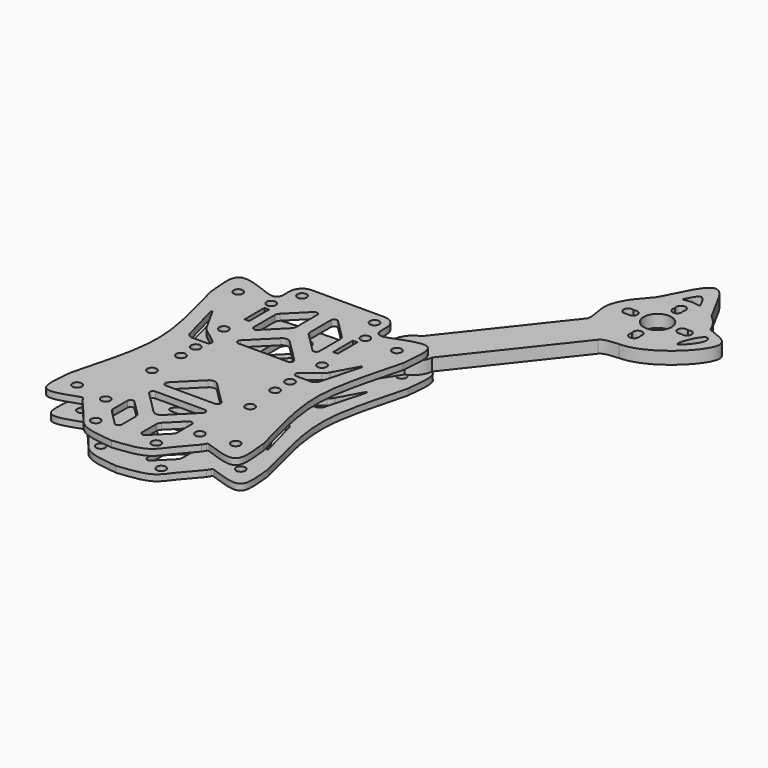
from build123d import *

# Parameters (mm, degrees)
F0_R     = 1.5
F0_W     = 1.5
F0_H     = 8
F1_DEPTH = 2
F2_R     = 1.5
F2_R_2   = 4.5
F3_DEPTH = 4
F5_START = -8
F4_R     = 1.5
F5_DEPTH = 2


with BuildPart() as f1:
    # F0 (on Top) → F1 (new body)
    with BuildSketch(Plane.XY):
        with BuildLine():
            Line((-18.3375635981, 31.6484452923), (-20.2031719051, 32.2218290431))
            add(Edge.make_bspline(
                [(-20.2031719051, 32.2218290431), (-23.587653786, 33.4649229243), (-33.8342020332, 38.0349181958), (-31.3543078417, 27.1598680228), (-31.2000553163, 23.5576178706)],
                knots=[0, 0, 0, 0, 0.5, 1, 1, 1, 1], degree=3))
            add(Edge.make_bspline(
                [(-31.2000553163, 23.5576178706), (-28.3736046302, 12.3604227018), (-23.0296225912, -4.7315553567), (-28.3736046302, -21.8235334151), (-31.2000553163, -33.020728584)],
                knots=[0, 0, 0, 0, 0.5, 1, 1, 1, 1], degree=3))
            add(Edge.make_bspline(
                [(-31.2000553163, -33.020728584), (-31.5236495663, -37.2076907408), (-33.4017812436, -47.0918338202), (-24.4280401499, -43.0389873741), (-20.6060443876, -41.8286181711)],
                knots=[0, 0, 0, 0, 0.5050655509, 1, 1, 1, 1], degree=3))
            Line((-20.6060443876, -41.8286181711), (-20.5803608331, -41.8194585175))
            ThreePointArc((-20.5803608331, -41.8194585175), (-20.2490943869, -41.8178274529), (-19.9895147498, -42.023639335))
            Line((-19.9895147498, -42.023639335), (-19.2511072473, -43.1941983527))
            add(Edge.make_bspline(
                [(-19.2511072473, -43.1941983527), (-17.3005706476, -45.3147992864), (-13.734975541, -49.537223912), (-10.2660770178, -54.6031397518), (-3.7194709349, -55.2509907064), (0, -55.6397614479)],
                knots=[0, 0, 0, 0, 0.3439625189, 0.625548145, 1, 1, 1, 1], degree=3))
            add(Edge.make_bspline(
                [(19.2511072473, -43.1941983527), (17.1900322363, -45.4409226451), (13.7763694298, -49.4899938476), (10.2513818536, -54.6199068055), (3.7194709349, -55.2509907064), (0, -55.6397614479)],
                knots=[0, 0, 0, 0, 0.3439625189, 0.625548145, 1, 1, 1, 1], degree=3))
            Line((19.2511072473, -43.1941983527), (19.9895147498, -42.023639335))
            ThreePointArc((19.9895147498, -42.023639335), (20.2490943869, -41.8178274529), (20.5803608331, -41.8194585175))
            Line((20.5803608331, -41.8194585175), (20.6060443876, -41.8286181711))
            add(Edge.make_bspline(
                [(31.2000553163, -33.020728584), (31.5241738424, -37.2110513509), (33.3984468888, -47.0857192502), (24.4340716378, -43.0477440686), (20.6060443876, -41.8286181711)],
                knots=[0, 0, 0, 0, 0.5050655509, 1, 1, 1, 1], degree=3))
            add(Edge.make_bspline(
                [(31.2000553163, 23.5576178706), (28.3736046302, 12.3604227018), (23.0296225912, -4.7315553567), (28.3736046302, -21.8235334151), (31.2000553163, -33.020728584)],
                knots=[0, 0, 0, 0, 0.5, 1, 1, 1, 1], degree=3))
            add(Edge.make_bspline(
                [(20.2031719051, 32.2218290431), (23.587653786, 33.4649229243), (33.8342020332, 38.0349181958), (31.3543078417, 27.1598680228), (31.2000553163, 23.5576178706)],
                knots=[0, 0, 0, 0, 0.5, 1, 1, 1, 1], degree=3))
            Line((20.2031719051, 32.2218290431), (18.3375635981, 31.6484452923))
            ThreePointArc((18.3375635981, 31.6484452923), (16.5615403238, 31.9515997489), (15.75, 33.5601903115))
            Line((15.75, 33.5601903115), (15.75, 36.2800180018))
            ThreePointArc((15.75, 36.2800180018), (14.5784271247, 39.1084451265), (11.75, 40.2800180018))
            Line((11.75, 40.2800180018), (0, 40.2800180018))
            Line((0, 40.2800180018), (-11.75, 40.2800180018))
            ThreePointArc((-11.75, 40.2800180018), (-14.5784271247, 39.1084451265), (-15.75, 36.2800180018))
            Line((-15.75, 36.2800180018), (-15.75, 33.5601903115))
            ThreePointArc((-15.75, 33.5601903115), (-16.5615403238, 31.9515997489), (-18.3375635981, 31.6484452923))
        make_face()
        with Locations((-25.7016136107, -37.3528341702)):
            Circle(F0_R, mode=Mode.SUBTRACT)
        with Locations((-9.8013905808, -49.6397614479)):
            Circle(F0_R, mode=Mode.SUBTRACT)
        with Locations((-15.25, -38.8460222539)):
            Circle(F0_R, mode=Mode.SUBTRACT)
        with BuildLine():
            ThreePointArc((-10.4, -36.1025408883), (-9.7826834324, -35.1786613557), (-8.6928932188, -35.3954341071))
            Line((-8.6928932188, -35.3954341071), (-3.9147186258, -40.1736087001))
            ThreePointArc((-3.9147186258, -40.1736087001), (-3.4811731231, -40.8224553978), (-3.3289321881, -41.5878222625))
            Line((-3.3289321881, -41.5878222625), (-3.3289321881, -47.2255478855))
            ThreePointArc((-3.3289321881, -47.2255478855), (-3.9462487558, -48.149427418), (-5.0360389693, -47.9326546667))
            Line((-5.0360389693, -47.9326546667), (-9.8142135624, -43.1544800737))
            ThreePointArc((-9.8142135624, -43.1544800737), (-10.247759065, -42.505633376), (-10.4, -41.7402665113))
            Line((-10.4, -41.7402665113), (-10.4, -36.1025408883))
        make_face(mode=Mode.SUBTRACT)
        with BuildLine():
            Line((-7.9857864376, -27.752749883), (0, -27.752749883))
            Line((0, -27.752749883), (7.9857864376, -27.752749883))
            ThreePointArc((7.9857864376, -27.752749883), (8.9096659701, -28.3700664506), (8.6928932188, -29.4598566642))
            Line((8.6928932188, -29.4598566642), (1.4142135624, -36.7385363206))
            ThreePointArc((1.4142135624, -36.7385363206), (0, -37.3243227583), (-1.4142135624, -36.7385363206))
            Line((-1.4142135624, -36.7385363206), (-8.6928932188, -29.4598566642))
            ThreePointArc((-8.6928932188, -29.4598566642), (-8.9096659701, -28.3700664506), (-7.9857864376, -27.752749883))
        make_face(mode=Mode.SUBTRACT)
        with Locations((-15.898, -19.2865553567)):
            Circle(F0_R, mode=Mode.SUBTRACT)
        with Locations((-15.25, -8.3460222539)):
            Circle(F0_R, mode=Mode.SUBTRACT)
        with BuildLine():
            Line((7.9857864376, -23.5960222539), (0, -23.5960222539))
            Line((0, -23.5960222539), (-7.9857864376, -23.5960222539))
            ThreePointArc((-7.9857864376, -23.5960222539), (-8.9096659701, -22.9787056862), (-8.6928932188, -21.8889154727))
            Line((-8.6928932188, -21.8889154727), (-1.4142135624, -14.6102358162))
            ThreePointArc((-1.4142135624, -14.6102358162), (0, -14.0244493786), (1.4142135624, -14.6102358162))
            Line((1.4142135624, -14.6102358162), (8.6928932188, -21.8889154727))
            ThreePointArc((8.6928932188, -21.8889154727), (8.9096659701, -22.9787056862), (7.9857864376, -23.5960222539))
        make_face(mode=Mode.SUBTRACT)
        with Locations((9.8013905808, -49.6397614479)):
            Circle(F0_R, mode=Mode.SUBTRACT)
        with BuildLine():
            Line((3.9147186258, -40.1736087001), (8.6928932188, -35.3954341071))
            ThreePointArc((8.6928932188, -35.3954341071), (9.7826834324, -35.1786613557), (10.4, -36.1025408883))
            Line((10.4, -36.1025408883), (10.4, -41.7402665113))
            ThreePointArc((10.4, -41.7402665113), (10.247759065, -42.505633376), (9.8142135624, -43.1544800737))
            Line((9.8142135624, -43.1544800737), (5.0360389693, -47.9326546667))
            ThreePointArc((5.0360389693, -47.9326546667), (3.9462487558, -48.149427418), (3.3289321881, -47.2255478855))
            Line((3.3289321881, -47.2255478855), (3.3289321881, -41.5878222625))
            ThreePointArc((3.3289321881, -41.5878222625), (3.4811731231, -40.8224553978), (3.9147186258, -40.1736087001))
        make_face(mode=Mode.SUBTRACT)
        with Locations((15.25, -38.8460222539)):
            Circle(F0_R, mode=Mode.SUBTRACT)
        with Locations((25.7016136107, -37.3528341702)):
            Circle(F0_R, mode=Mode.SUBTRACT)
        with Locations((15.898, -19.2865553567)):
            Circle(F0_R, mode=Mode.SUBTRACT)
        with Locations((15.25, -8.3460222539)):
            Circle(F0_R, mode=Mode.SUBTRACT)
        with BuildLine():
            ThreePointArc((-13.9443706064, 2.8309352999), (-13.6076066332, 1.7163427022), (-14.5542998026, 1.0384793859))
            Line((-14.5542998026, 1.0384793859), (-19.1284531279, 1.0384793859))
            ThreePointArc((-19.1284531279, 1.0384793859), (-20.3441756356, 1.4503928693), (-21.0591256503, 2.5164606016))
            Line((-21.0591256503, 2.5164606016), (-24.4749915331, 15.1499492776))
            ThreePointArc((-24.4749915331, 15.1499492776), (-24.327285987, 15.4470069327), (-24.0147040959, 15.3358640511))
            Line((-24.0147040959, 15.3358640511), (-19.9682088279, 7.9931160539))
            ThreePointArc((-19.9682088279, 7.9931160539), (-19.3833896778, 7.1500353535), (-18.6387873707, 6.4440849942))
            Line((-18.6387873707, 6.4440849942), (-13.9443706064, 2.8309352999))
        make_face(mode=Mode.SUBTRACT)
        with Locations((-15.25, -2.3460222539)):
            Circle(F0_R, mode=Mode.SUBTRACT)
        with Locations((-15.898, 9.8234446433)):
            Circle(F0_R, mode=Mode.SUBTRACT)
        with BuildLine():
            Line((7.9814822674, 5.8881554157), (-7.9814822674, 5.8881554157))
            ThreePointArc((-7.9814822674, 5.8881554157), (-8.9053617999, 6.5054719833), (-8.6885890486, 7.5952621968))
            Line((-8.6885890486, 7.5952621968), (-1.4142135624, 14.869637683))
            ThreePointArc((-1.4142135624, 14.869637683), (0, 15.4554241207), (1.4142135624, 14.869637683))
            Line((1.4142135624, 14.869637683), (8.6885890486, 7.5952621968))
            ThreePointArc((8.6885890486, 7.5952621968), (8.9053617999, 6.5054719833), (7.9814822674, 5.8881554157))
        make_face(mode=Mode.SUBTRACT)
        with Locations((-25.7016136107, 27.8897234569)):
            Circle(F0_R, mode=Mode.SUBTRACT)
        with Locations((-14.33, 21.1865282538)):
            Rectangle(F0_W, F0_H, mode=Mode.SUBTRACT)
        with Locations((-15.25, 28.1539777461)):
            Circle(F0_R, mode=Mode.SUBTRACT)
        with BuildLine():
            Line((-2.2476087324, 30.5143016633), (-2.2476087324, 22.1581229493))
            ThreePointArc((-2.2476087324, 22.1581229493), (-2.3998496674, 21.3927560845), (-2.8333951701, 20.7439093869))
            Line((-2.8333951701, 20.7439093869), (-8.8994949366, 14.6778096204))
            ThreePointArc((-8.8994949366, 14.6778096204), (-9.9892851502, 14.461036869), (-10.6066017178, 15.3849164015))
            Line((-10.6066017178, 15.3849164015), (-10.6066017178, 23.7410951155))
            ThreePointArc((-10.6066017178, 23.7410951155), (-10.4543607828, 24.5064619803), (-10.0208152802, 25.1553086779))
            Line((-10.0208152802, 25.1553086779), (-3.9547155136, 31.2214084445))
            ThreePointArc((-3.9547155136, 31.2214084445), (-2.8649253001, 31.4381811958), (-2.2476087324, 30.5143016633))
        make_face(mode=Mode.SUBTRACT)
        with Locations((-11.75, 36.2800180018)):
            Circle(F0_R, mode=Mode.SUBTRACT)
        with Locations((15.25, -2.3460222539)):
            Circle(F0_R, mode=Mode.SUBTRACT)
        with Locations((15.898, 9.8234446433)):
            Circle(F0_R, mode=Mode.SUBTRACT)
        with BuildLine():
            ThreePointArc((18.6387873707, 6.4440849942), (19.3833896778, 7.1500353535), (19.9682088279, 7.9931160539))
            Line((19.9682088279, 7.9931160539), (24.0146508596, 15.335767449))
            ThreePointArc((24.0146508596, 15.335767449), (24.3272342116, 15.4469097405), (24.4749374744, 15.1498496337))
            Line((24.4749374744, 15.1498496337), (21.0589210791, 2.5164362672))
            ThreePointArc((21.0589210791, 2.5164362672), (20.3439676359, 1.4503852077), (19.1282551365, 1.0384793859))
            Line((19.1282551365, 1.0384793859), (14.5542998026, 1.0384793859))
            ThreePointArc((14.5542998026, 1.0384793859), (13.6076066332, 1.7163427022), (13.9443706064, 2.8309352999))
            Line((13.9443706064, 2.8309352999), (18.6387873707, 6.4440849942))
        make_face(mode=Mode.SUBTRACT)
        with BuildLine():
            ThreePointArc((2.8333951701, 20.7439093869), (2.3998496674, 21.3927560845), (2.2476087324, 22.1581229493))
            Line((2.2476087324, 22.1581229493), (2.2476087324, 30.5143016633))
            ThreePointArc((2.2476087324, 30.5143016633), (2.8649253001, 31.4381811958), (3.9547155136, 31.2214084445))
            Line((3.9547155136, 31.2214084445), (10.0208152802, 25.1553086779))
            ThreePointArc((10.0208152802, 25.1553086779), (10.4543607828, 24.5064619803), (10.6066017178, 23.7410951155))
            Line((10.6066017178, 23.7410951155), (10.6066017178, 15.3849164015))
            ThreePointArc((10.6066017178, 15.3849164015), (9.9892851502, 14.461036869), (8.8994949366, 14.6778096204))
            Line((8.8994949366, 14.6778096204), (2.8333951701, 20.7439093869))
        make_face(mode=Mode.SUBTRACT)
        with Locations((14.33, 21.1865282538)):
            Rectangle(F0_W, F0_H, mode=Mode.SUBTRACT)
        with Locations((15.25, 28.1539777461)):
            Circle(F0_R, mode=Mode.SUBTRACT)
        with Locations((11.75, 36.2800180018)):
            Circle(F0_R, mode=Mode.SUBTRACT)
        with Locations((25.7016136107, 27.8897234569)):
            Circle(F0_R, mode=Mode.SUBTRACT)
    extrude(amount=F1_DEPTH)


with BuildPart() as f3:
    # F2 (on Top) → F3 (new body)
    with BuildSketch(Plane.XY):
        with BuildLine():
            Line((49.8243323871, 74.7022764261), (23.2248796433, 40.9414325589))
            ThreePointArc((23.2248796433, 40.9414325589), (20.1993924736, 38.7249126509), (18.7523545354, 35.2647660758))
            Line((18.7523545354, 35.2647660758), (14.2352850325, 20.504866441))
            ThreePointArc((14.2352850325, 20.504866441), (12.3636828047, 19.1083964616), (11.4439259975, 16.9619876659))
            Line((11.4439259975, 16.9619876659), (-3.18981e-05, 6.2685870044))
            Line((-3.18981e-05, 6.2685870044), (-4.6598e-05, 1.7685870045))
            Line((-4.6598e-05, 1.7685870045), (4.499953402, 1.7685870045))
            Line((4.499953402, 1.7685870045), (17.561505627, 12.1420764427))
            ThreePointArc((17.561505627, 12.1420764427), (19.4331078547, 13.5385464221), (20.3528646619, 15.6849552178))
            Line((20.3528646619, 15.6849552178), (28.1880432299, 27.8507233841))
            ThreePointArc((28.1880432299, 27.8507233841), (31.1962758848, 30.0607014785), (32.6409910823, 33.5025418121))
            Line((32.6409910823, 33.5025418121), (59.2502324538, 67.2758097068))
            add(Edge.make_bspline(
                [(59.2502324538, 67.2758097068), (60.27580451, 68.5774973165), (62.7674087882, 68.4728503823), (64.999953402, 68.7685870045)],
                knots=[0, 0, 0, 0, 5.9403430071, 5.9403430071, 5.9403430071, 5.9403430071], degree=3))
            add(Edge.make_bspline(
                [(64.999953402, 68.7685870045), (73.9248672594, 68.7711213404), (91.2346973425, 85.6949804147), (81.4949367674, 87.8860853881), (78.0397729775, 89.3639874242)],
                knots=[0, 0, 0, 0, 0.6313648368, 1, 1, 1, 1], degree=3))
            ThreePointArc((78.0397729775, 89.3639874242), (76.245979947, 92.6068654208), (73.6641645744, 95.2654704156))
            add(Edge.make_bspline(
                [(68.999953402, 103.8645049467), (70.5546904594, 100.998160103), (72.1094275169, 98.1318152593), (73.6641645744, 95.2654704156)],
                knots=[0, 0, 0, 0, 9.7825487848, 9.7825487848, 9.7825487848, 9.7825487848], degree=3))
            add(Edge.make_bspline(
                [(60.999953402, 103.8645049467), (61.7196038365, 105.0051525235), (64.9924213546, 110.4186422752), (68.2953670621, 105.231910944), (68.999953402, 103.8645049467)],
                knots=[0, 0, 0, 0, 0.5, 1, 1, 1, 1], degree=3))
            add(Edge.make_bspline(
                [(60.999953402, 103.8645049467), (59.5754060716, 101.0929437597), (58.1466615397, 98.330736232), (56.7221142093, 95.559175045)],
                knots=[0, 0, 0, 0, 9.3422916319, 9.3422916319, 9.3422916319, 9.3422916319], degree=3))
            add(Edge.make_bspline(
                [(56.7221142093, 95.559175045), (55.4515942931, 92.8593873978), (51.1891283095, 90.4396995902), (49.499953402, 84.2685870045)],
                knots=[0, 0, 0, 0, 13.4028722678, 13.4028722678, 13.4028722678, 13.4028722678], degree=3))
            add(Edge.make_bspline(
                [(49.499953402, 84.2685870045), (48.64455387, 80.555960536), (50.7841259241, 76.7597183585), (49.8243323871, 74.7022764261)],
                knots=[0, 0, 0, 0, 9.5718085965, 9.5718085965, 9.5718085965, 9.5718085965], degree=3))
        make_face()
        with Locations((15.8983953297, 16.3234714419)):
            Circle(F2_R, mode=Mode.SUBTRACT)
        with Locations((25.6978341792, 34.3928070647)):
            Circle(F2_R, mode=Mode.SUBTRACT)
        with BuildLine():
            ThreePointArc((63.7009152963, 75.5185870045), (64.999953402, 77.7685870045), (66.2989915076, 75.5185870045))
            ThreePointArc((66.2989915076, 75.5185870045), (64.999953402, 73.2685870045), (63.7009152963, 75.5185870045))
        make_face(mode=Mode.SUBTRACT)
        with BuildLine():
            add(Edge.make_bspline(
                [(77.9094518406, 78.8514982971), (73.8422132435, 74.1291974656), (78.6840394139, 87.9250913858), (80.7350352407, 85.0777179003)],
                knots=[0, 0, 0, 0, 6.8373775746, 6.8373775746, 6.8373775746, 6.8373775746], degree=3))
            add(Edge.make_bspline(
                [(80.7350352407, 85.0777179003), (81.7874148488, 83.2536071539), (79.3683610263, 80.3453882209), (77.9094518406, 78.8514982971)],
                knots=[0, 0, 0, 0, 6.8373775746, 6.8373775746, 6.8373775746, 6.8373775746], degree=3))
        make_face(mode=Mode.SUBTRACT)
        with BuildLine():
            ThreePointArc((56.249953402, 85.5676251101), (58.499953402, 84.2685870045), (56.249953402, 82.9695488988))
            ThreePointArc((56.249953402, 82.9695488988), (53.999953402, 84.2685870045), (56.249953402, 85.5676251101))
        make_face(mode=Mode.SUBTRACT)
        with Locations((64.999953402, 84.2685870045)):
            Circle(F2_R_2, mode=Mode.SUBTRACT)
        with BuildLine():
            ThreePointArc((63.7009152963, 93.0185870045), (64.999953402, 95.2685870045), (66.2989915076, 93.0185870045))
            ThreePointArc((66.2989915076, 93.0185870045), (64.999953402, 90.7685870045), (63.7009152963, 93.0185870045))
        make_face(mode=Mode.SUBTRACT)
        with BuildLine():
            add(Edge.make_bspline(
                [(62.299953402, 98.2685870045), (61.8817634431, 97.5124944684), (64.999953402, 98.9603738068), (68.1181433608, 97.5124944684), (67.699953402, 98.2685870045)],
                knots=[0, 0, 0, 0, 0.5, 1, 1, 1, 1], degree=3))
            add(Edge.make_bspline(
                [(62.299953402, 98.2685870045), (63.199953402, 100.0893990752), (64.999953402, 103.7305665195), (66.799953402, 100.0893990752), (67.699953402, 98.2685870045)],
                knots=[0, 0, 0, 0, 0.5, 1, 1, 1, 1], degree=3))
        make_face(mode=Mode.SUBTRACT)
        with BuildLine():
            ThreePointArc((73.749953402, 82.9695488988), (71.499953402, 84.2685870045), (73.749953402, 85.5676251101))
            ThreePointArc((73.749953402, 85.5676251101), (75.999953402, 84.2685870045), (73.749953402, 82.9695488988))
        make_face(mode=Mode.SUBTRACT)
    extrude(amount=-F3_DEPTH)


with BuildPart() as f5:
    # F4 (on Top) → F5 (new body)
    with BuildSketch(Plane.XY.offset(F5_START)):
        with BuildLine():
            add(Edge.make_bspline(
                [(-22.5301694532, 37.1075806708), (-15.7957788182, 37.6926555083), (-2.3269975481, 38.8628051832), (11.1417837219, 37.6926555083), (17.876174357, 37.1075806708)],
                knots=[0, 0, 0, 0, 0.5, 1, 1, 1, 1], degree=3))
            add(Edge.make_bspline(
                [(-22.5301694532, 37.1075806708), (-25.9146513341, 38.350674552), (-36.1611995813, 42.9206698236), (-33.6813053898, 32.0456196505), (-33.5270528644, 28.4433694984)],
                knots=[0, 0, 0, 0, 0.5, 1, 1, 1, 1], degree=3))
            add(Edge.make_bspline(
                [(-33.5270528644, 28.4433694984), (-30.7006021783, 17.2461743295), (-25.3566201393, 0.1541962711), (-30.7006021783, -16.9377817874), (-33.5270528644, -28.1349769563)],
                knots=[0, 0, 0, 0, 0.5, 1, 1, 1, 1], degree=3))
            add(Edge.make_bspline(
                [(-33.5270528644, -28.1349769563), (-33.8506471144, -32.321939113), (-35.7287787917, -42.2060821925), (-26.755037698, -38.1532357463), (-22.9330419357, -36.9428665433)],
                knots=[0, 0, 0, 0, 0.5050655509, 1, 1, 1, 1], degree=3))
            Line((-22.9330419357, -36.9428665433), (-22.9073583812, -36.9337068897))
            ThreePointArc((-22.9073583812, -36.9337068897), (-22.576091935, -36.9320758252), (-22.3165122979, -37.1378877072))
            Line((-22.3165122979, -37.1378877072), (-21.5781047954, -38.3084467249))
            add(Edge.make_bspline(
                [(-21.5781047954, -38.3084467249), (-19.6275681957, -40.4290476586), (-16.0619730891, -44.6514722843), (-12.593074566, -49.7173881241), (-6.046468483, -50.3652390786), (-2.3269975481, -50.7540098202)],
                knots=[0, 0, 0, 0, 0.3439625189, 0.625548145, 1, 1, 1, 1], degree=3))
            add(Edge.make_bspline(
                [(16.9241096992, -38.3084467249), (14.8630346882, -40.5551710173), (11.4493718817, -44.6042422199), (7.9243843055, -49.7341551778), (1.3924733868, -50.3652390786), (-2.3269975481, -50.7540098202)],
                knots=[0, 0, 0, 0, 0.3439625189, 0.625548145, 1, 1, 1, 1], degree=3))
            Line((16.9241096992, -38.3084467249), (17.6625172017, -37.1378877072))
            ThreePointArc((17.6625172017, -37.1378877072), (17.9220968388, -36.9320758252), (18.253363285, -36.9337068897))
            Line((18.253363285, -36.9337068897), (18.2790468395, -36.9428665433))
            add(Edge.make_bspline(
                [(28.8730577682, -28.1349769563), (29.1971762943, -32.3252997231), (31.0714493407, -42.1999676224), (22.1070740897, -38.1619924409), (18.2790468395, -36.9428665433)],
                knots=[0, 0, 0, 0, 0.5050655509, 1, 1, 1, 1], degree=3))
            add(Edge.make_bspline(
                [(28.8730577682, 28.4433694984), (26.0466070821, 17.2461743295), (20.7026250431, 0.1541962711), (26.0466070821, -16.9377817874), (28.8730577682, -28.1349769563)],
                knots=[0, 0, 0, 0, 0.5, 1, 1, 1, 1], degree=3))
            add(Edge.make_bspline(
                [(17.876174357, 37.1075806708), (21.2606562379, 38.350674552), (31.507204485, 42.9206698236), (29.0273102936, 32.0456196505), (28.8730577682, 28.4433694984)],
                knots=[0, 0, 0, 0, 0.5, 1, 1, 1, 1], degree=3))
        make_face()
        with Locations((-28.0286111588, -32.4670825425)):
            Circle(F4_R, mode=Mode.SUBTRACT)
        with Locations((-12.1283881289, -44.7540098202)):
            Circle(F4_R, mode=Mode.SUBTRACT)
        with BuildLine():
            ThreePointArc((-12.7269975481, -31.2167892605), (-12.1096809805, -30.292909728), (-11.0198907669, -30.5096824793))
            Line((-11.0198907669, -30.5096824793), (-6.2417161739, -35.2878570724))
            ThreePointArc((-6.2417161739, -35.2878570724), (-5.8081706712, -35.93670377), (-5.6559297362, -36.7020706347))
            Line((-5.6559297362, -36.7020706347), (-5.6559297362, -42.3397962578))
            ThreePointArc((-5.6559297362, -42.3397962578), (-6.2732463039, -43.2636757903), (-7.3630365174, -43.046903039))
            Line((-7.3630365174, -43.046903039), (-12.1412111105, -38.2687284459))
            ThreePointArc((-12.1412111105, -38.2687284459), (-12.5747566131, -37.6198817483), (-12.7269975481, -36.8545148836))
            Line((-12.7269975481, -36.8545148836), (-12.7269975481, -31.2167892605))
        make_face(mode=Mode.SUBTRACT)
        with BuildLine():
            ThreePointArc((-26.341701644, -19.9132231368), (-26.6542835351, -20.0243660183), (-26.8019890812, -19.7273083632))
            Line((-26.8019890812, -19.7273083632), (-23.3861231984, -7.0938196872))
            ThreePointArc((-23.3861231984, -7.0938196872), (-22.6711731837, -6.0277519549), (-21.455450676, -5.6158384715))
            Line((-21.455450676, -5.6158384715), (-16.8812973507, -5.6158384715))
            ThreePointArc((-16.8812973507, -5.6158384715), (-15.9346041813, -6.2937017878), (-16.2713681545, -7.4082943855))
            Line((-16.2713681545, -7.4082943855), (-20.9657849188, -11.0214440799))
            ThreePointArc((-20.9657849188, -11.0214440799), (-21.7103872259, -11.7273944392), (-22.295206376, -12.5704751396))
            Line((-22.295206376, -12.5704751396), (-26.341701644, -19.9132231368))
        make_face(mode=Mode.SUBTRACT)
        with Locations((7.4743930327, -44.7540098202)):
            Circle(F4_R, mode=Mode.SUBTRACT)
        with BuildLine():
            Line((1.5877210777, -35.2878570724), (6.3658956707, -30.5096824793))
            ThreePointArc((6.3658956707, -30.5096824793), (7.4556858843, -30.292909728), (8.0730024519, -31.2167892605))
            Line((8.0730024519, -31.2167892605), (8.0730024519, -36.8545148836))
            ThreePointArc((8.0730024519, -36.8545148836), (7.9207615169, -37.6198817483), (7.4872160143, -38.2687284459))
            Line((7.4872160143, -38.2687284459), (2.7090414212, -43.046903039))
            ThreePointArc((2.7090414212, -43.046903039), (1.6192512077, -43.2636757903), (1.00193464, -42.3397962578))
            Line((1.00193464, -42.3397962578), (1.00193464, -36.7020706347))
            ThreePointArc((1.00193464, -36.7020706347), (1.154175575, -35.93670377), (1.5877210777, -35.2878570724))
        make_face(mode=Mode.SUBTRACT)
        with BuildLine():
            Line((-10.3127839857, -22.8669982553), (-2.3269975481, -22.8669982553))
            Line((-2.3269975481, -22.8669982553), (5.6587888895, -22.8669982553))
            ThreePointArc((5.6587888895, -22.8669982553), (6.582668422, -23.4843148229), (6.3658956707, -24.5741050365))
            Line((6.3658956707, -24.5741050365), (-0.9127839857, -31.8527846929))
            ThreePointArc((-0.9127839857, -31.8527846929), (-2.3269975481, -32.4385711305), (-3.7412111105, -31.8527846929))
            Line((-3.7412111105, -31.8527846929), (-11.0198907669, -24.5741050365))
            ThreePointArc((-11.0198907669, -24.5741050365), (-11.2366635182, -23.4843148229), (-10.3127839857, -22.8669982553))
        make_face(mode=Mode.SUBTRACT)
        with Locations((23.3746160626, -32.4670825425)):
            Circle(F4_R, mode=Mode.SUBTRACT)
        with BuildLine():
            Line((5.6587888895, -18.7102706261), (-2.3269975481, -18.7102706261))
            Line((-2.3269975481, -18.7102706261), (-10.3127839857, -18.7102706261))
            ThreePointArc((-10.3127839857, -18.7102706261), (-11.2366635182, -18.0929540585), (-11.0198907669, -17.0031638449))
            Line((-11.0198907669, -17.0031638449), (-3.7412111105, -9.7244841885))
            ThreePointArc((-3.7412111105, -9.7244841885), (-2.3269975481, -9.1386977509), (-0.9127839857, -9.7244841885))
            Line((-0.9127839857, -9.7244841885), (6.3658956707, -17.0031638449))
            ThreePointArc((6.3658956707, -17.0031638449), (6.582668422, -18.0929540585), (5.6587888895, -18.7102706261))
        make_face(mode=Mode.SUBTRACT)
        with BuildLine():
            Line((18.731923531, -7.0937953528), (22.1479399263, -19.7272087193))
            ThreePointArc((22.1479399263, -19.7272087193), (22.0002366635, -20.0242688261), (21.6876533115, -19.9131265346))
            Line((21.6876533115, -19.9131265346), (17.6412112798, -12.5704751396))
            ThreePointArc((17.6412112798, -12.5704751396), (17.0563921297, -11.7273944392), (16.3117898225, -11.0214440799))
            Line((16.3117898225, -11.0214440799), (11.6173730583, -7.4082943855))
            ThreePointArc((11.6173730583, -7.4082943855), (11.2806090851, -6.2937017878), (12.2273022545, -5.6158384715))
            Line((12.2273022545, -5.6158384715), (16.8012575883, -5.6158384715))
            ThreePointArc((16.8012575883, -5.6158384715), (18.0169700878, -6.0277442934), (18.731923531, -7.0937953528))
        make_face(mode=Mode.SUBTRACT)
        with BuildLine():
            ThreePointArc((-16.2713681545, 7.7166869277), (-15.9346041813, 6.6020943299), (-16.8812973507, 5.9242310136))
            Line((-16.8812973507, 5.9242310136), (-21.455450676, 5.9242310136))
            ThreePointArc((-21.455450676, 5.9242310136), (-22.6711731837, 6.336144497), (-23.3861231984, 7.4022122293))
            Line((-23.3861231984, 7.4022122293), (-26.8019890812, 20.0357009053))
            ThreePointArc((-26.8019890812, 20.0357009053), (-26.6542835351, 20.3327585604), (-26.341701644, 20.2216156789))
            Line((-26.341701644, 20.2216156789), (-22.295206376, 12.8788676817))
            ThreePointArc((-22.295206376, 12.8788676817), (-21.7103872259, 12.0357869813), (-20.9657849188, 11.329836622))
            Line((-20.9657849188, 11.329836622), (-16.2713681545, 7.7166869277))
        make_face(mode=Mode.SUBTRACT)
        with Locations((-28.0286111588, 32.7754750846)):
            Circle(F4_R, mode=Mode.SUBTRACT)
        with BuildLine():
            Line((-12.9335992659, 20.2706680293), (-12.9335992659, 28.6268467433))
            ThreePointArc((-12.9335992659, 28.6268467433), (-12.7813583309, 29.392213608), (-12.3478128283, 30.0410603057))
            Line((-12.3478128283, 30.0410603057), (-9.6959266241, 32.6929465098))
            ThreePointArc((-9.6959266241, 32.6929465098), (-6.4265559834, 33.3432647638), (-4.5746062805, 30.5716261663))
            Line((-4.5746062805, 30.5716261663), (-4.5746062805, 27.043874577))
            ThreePointArc((-4.5746062805, 27.043874577), (-4.7268472155, 26.2785077123), (-5.1603927182, 25.6296610147))
            Line((-5.1603927182, 25.6296610147), (-11.2264924847, 19.5635612481))
            ThreePointArc((-11.2264924847, 19.5635612481), (-12.3162826983, 19.3467884968), (-12.9335992659, 20.2706680293))
        make_face(mode=Mode.SUBTRACT)
        with BuildLine():
            Line((5.6544847193, 10.7739070434), (-10.3084798155, 10.7739070434))
            ThreePointArc((-10.3084798155, 10.7739070434), (-11.232359348, 11.391223611), (-11.0155865967, 12.4810138246))
            Line((-11.0155865967, 12.4810138246), (-3.7412111105, 19.7553893108))
            ThreePointArc((-3.7412111105, 19.7553893108), (-2.3269975481, 20.3411757484), (-0.9127839857, 19.7553893108))
            Line((-0.9127839857, 19.7553893108), (6.3615915005, 12.4810138246))
            ThreePointArc((6.3615915005, 12.4810138246), (6.5783642518, 11.391223611), (5.6544847193, 10.7739070434))
        make_face(mode=Mode.SUBTRACT)
        with BuildLine():
            ThreePointArc((16.3117898225, 11.329836622), (17.0563921297, 12.0357869813), (17.6412112798, 12.8788676817))
            Line((17.6412112798, 12.8788676817), (21.6876533115, 20.2215190768))
            ThreePointArc((21.6876533115, 20.2215190768), (22.0002366635, 20.3326613682), (22.1479399263, 20.0356012614))
            Line((22.1479399263, 20.0356012614), (18.731923531, 7.4021878949))
            ThreePointArc((18.731923531, 7.4021878949), (18.0169700878, 6.3361368355), (16.8012575883, 5.9242310136))
            Line((16.8012575883, 5.9242310136), (12.2273022545, 5.9242310136))
            ThreePointArc((12.2273022545, 5.9242310136), (11.2806090851, 6.6020943299), (11.6173730583, 7.7166869277))
            Line((11.6173730583, 7.7166869277), (16.3117898225, 11.329836622))
        make_face(mode=Mode.SUBTRACT)
        with BuildLine():
            ThreePointArc((7.6938177321, 30.0410603057), (8.1273632347, 29.392213608), (8.2796041697, 28.6268467433))
            Line((8.2796041697, 28.6268467433), (8.2796041697, 20.2706680293))
            ThreePointArc((8.2796041697, 20.2706680293), (7.6622876021, 19.3467884968), (6.5724973885, 19.5635612481))
            Line((6.5724973885, 19.5635612481), (0.5063976219, 25.6296610147))
            ThreePointArc((0.5063976219, 25.6296610147), (0.0728521193, 26.2785077123), (-0.0793888157, 27.043874577))
            Line((-0.0793888157, 27.043874577), (-0.0793888157, 30.5716261663))
            ThreePointArc((-0.0793888157, 30.5716261663), (1.7725608872, 33.3432647638), (5.0419315279, 32.6929465098))
            Line((5.0419315279, 32.6929465098), (7.6938177321, 30.0410603057))
        make_face(mode=Mode.SUBTRACT)
        with Locations((23.3746160626, 32.7754750846)):
            Circle(F4_R, mode=Mode.SUBTRACT)
    extrude(amount=-F5_DEPTH)


solid = Compound([f1.part, f3.part, f5.part])
